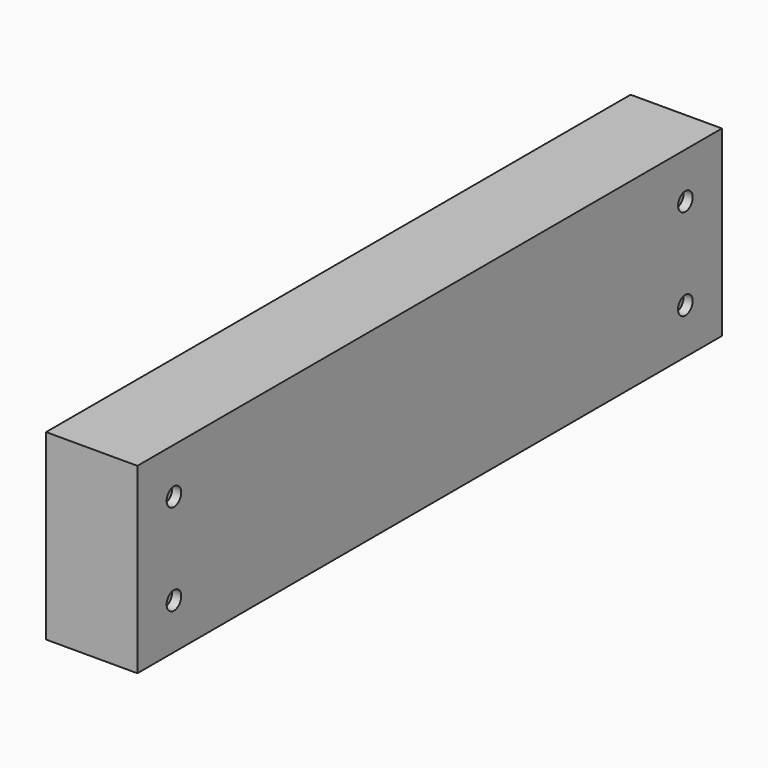
from build123d import *

# Parameters (mm, degrees)
F0_W     = 100
F0_H     = 200
F1_DEPTH = 800
F2_R     = 10
F3_DEPTH = 10


with BuildPart() as f1:
    # F0 (on Front) → F1 (new body)
    with BuildSketch(Plane.XZ):
        with Locations((-50, 100)):
            Rectangle(F0_W, F0_H)
    extrude(amount=F1_DEPTH)

    # F2 (on face) → F3 (cut)
    with BuildSketch(Plane.YZ):
        with Locations((-750, 150)):
            Circle(F2_R)
        with Locations((-750, 50)):
            Circle(F2_R)
        with Locations((-50, 150)):
            Circle(F2_R)
        with Locations((-50, 50)):
            Circle(F2_R)
    extrude(amount=-F3_DEPTH, mode=Mode.SUBTRACT)


solid = f1.part
